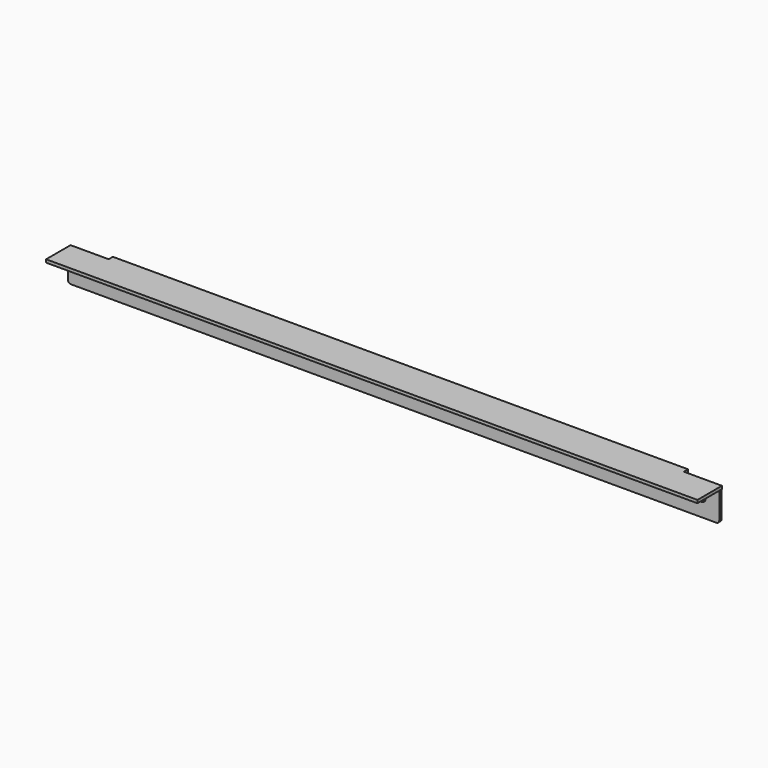
from build123d import *

# Parameters (mm, degrees)
F0_R     = 9.525
F0_W     = 1222.248
F0_H     = 6.35
F1_DEPTH = 6.35
F2_W     = 1222.248
F2_H     = 6.35
F3_DEPTH = 69.85
F4_W     = 65.024
F4_H     = 6.35
F5_DEPTH = 81.026
F6_W     = 65.024
F6_H     = 6.35
F7_DEPTH = 81.026


with BuildPart() as f1:
    # F0 (on Front) → F1 (new body)
    with BuildSketch(Plane.XZ):
        with BuildLine():
            ThreePointArc((-701.675, -33.274), (-699.424995, -36.749995), (-695.510592, -38.1))
            Line((-695.510592, -38.1), (676.275, -38.1))
            ThreePointArc((676.275, -38.1), (680.765128, -36.240128), (682.625, -31.75))
            Line((682.625, -31.75), (682.625, 25.4))
            Line((682.625, 25.4), (611.124, 25.4))
            Line((611.124, 25.4), (611.124, 31.75))
            Line((611.124, 31.75), (-611.124, 31.75))
            Line((-611.124, 31.75), (-611.124, 25.4))
            Line((-611.124, 25.4), (-701.675, 25.4))
            Line((-701.675, 25.4), (-701.675, -33.274))
        make_face()
        with Locations((-663.575, 0)):
            Circle(F0_R, mode=Mode.SUBTRACT)
        with Locations((644.525, 0)):
            Circle(F0_R, mode=Mode.SUBTRACT)
        with Locations((0, 34.925)):
            Rectangle(F0_W, F0_H)
    extrude(amount=F1_DEPTH)

    # F2 (on face) → F3 (join)
    with BuildSketch(Plane.XZ.offset(6.35)):
        with Locations((0, 34.925)):
            Rectangle(F2_W, F2_H)
    extrude(amount=F3_DEPTH)

    # F4 (on face) → F5 (join)
    with BuildSketch(Plane(origin=(-611.124, 0, 0), x_dir=(0, -1, 0), z_dir=(-1, 0, 0))):
        with Locations((43.688, 34.925)):
            Rectangle(F4_W, F4_H)
    extrude(amount=F5_DEPTH)

    # F6 (on face) → F7 (join)
    with BuildSketch(Plane.YZ.offset(611.124)):
        with Locations((-43.688, 34.925)):
            Rectangle(F6_W, F6_H)
    extrude(amount=F7_DEPTH)


solid = f1.part
